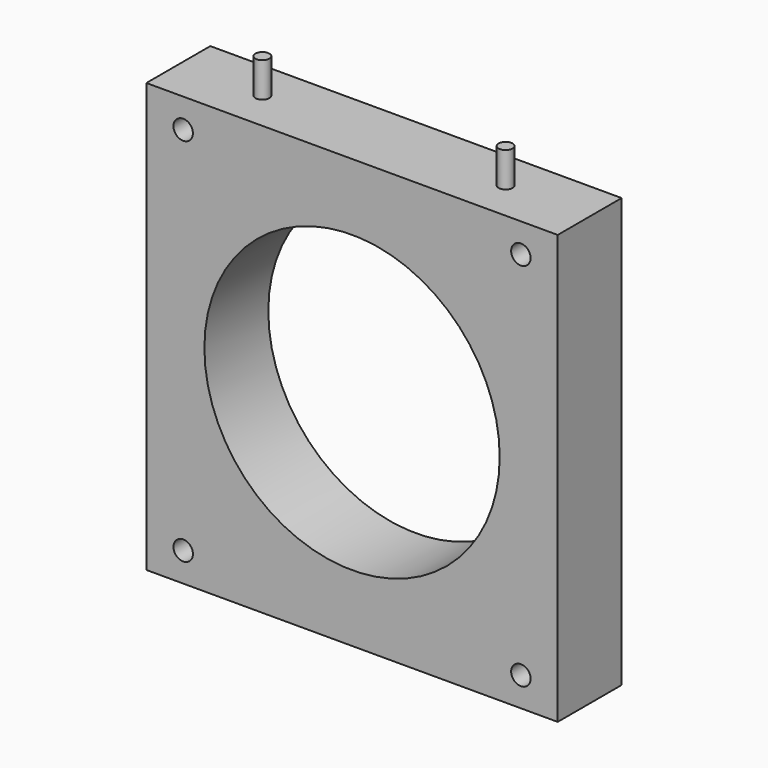
from build123d import *

# Parameters (mm, degrees)
F0_W     = 150.368
F0_H     = 156.718
F0_R     = 3.556
F0_R_2   = 53.975
F1_DEPTH = 14.605
F2_R     = 2.54
F3_DEPTH = 12.7


with BuildPart() as f1:
    # F0 (on Front) → F1 (new body, symmetric)
    with BuildSketch(Plane.XZ):
        Rectangle(F0_W, F0_H)
        with Locations((-61.722, -67.691)):
            Circle(F0_R, mode=Mode.SUBTRACT)
        with Locations((61.722, -67.691)):
            Circle(F0_R, mode=Mode.SUBTRACT)
        with Locations((-61.722, 67.691)):
            Circle(F0_R, mode=Mode.SUBTRACT)
        Circle(F0_R_2, mode=Mode.SUBTRACT)
        with Locations((61.722, 67.691)):
            Circle(F0_R, mode=Mode.SUBTRACT)
    extrude(amount=F1_DEPTH, both=True)

    # F2 (on face) → F3 (join)
    with BuildSketch(Plane.XY.offset(78.359)):
        with Locations((-44.45, 0)):
            Circle(F2_R)
        with Locations((44.45, 0)):
            Circle(F2_R)
    extrude(amount=F3_DEPTH)


solid = f1.part
